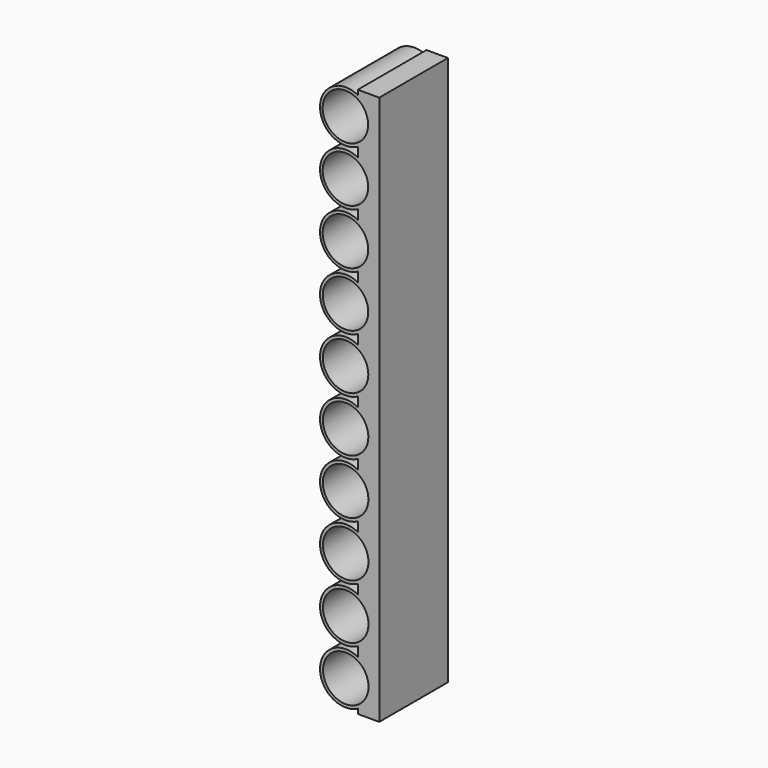
from build123d import *

# Parameters (mm, degrees)
F1_DEPTH = 10
F2_R     = 2.65
F3_DEPTH = 8


with BuildPart() as f1:
    # F0 (on Front) → F1 (new body)
    with BuildSketch(Plane.XZ):
        with BuildLine():
            ThreePointArc((0.118056, -30.331114), (-4.281944, -32.984414), (0.118056, -35.637714))
            Line((0.118056, -35.637714), (0.118056, -30.331114))
        make_face()
        with BuildLine():
            ThreePointArc((0.118056, -17.531114), (-4.281944, -20.184414), (0.118056, -22.837714))
            Line((0.118056, -22.837714), (0.118056, -17.531114))
        make_face()
        with BuildLine():
            ThreePointArc((0.118056, 27.268886), (1.287102, 26.164779), (1.718056, 24.615586))
            ThreePointArc((1.718056, 24.615586), (1.287102, 23.066393), (0.118056, 21.962286))
            Line((0.118056, 21.962286), (0.118056, 20.868886))
            ThreePointArc((0.118056, 20.868886), (1.287102, 19.764779), (1.718056, 18.215586))
            ThreePointArc((1.718056, 18.215586), (1.287102, 16.666393), (0.118056, 15.562286))
            Line((0.118056, 15.562286), (0.118056, 14.468886))
            ThreePointArc((0.118056, 14.468886), (1.287102, 13.364779), (1.718056, 11.815586))
            ThreePointArc((1.718056, 11.815586), (1.287102, 10.266393), (0.118056, 9.162286))
            Line((0.118056, 9.162286), (0.118056, 8.068886))
            ThreePointArc((0.118056, 8.068886), (1.287102, 6.964779), (1.718056, 5.415586))
            ThreePointArc((1.718056, 5.415586), (1.287102, 3.866393), (0.118056, 2.762286))
            Line((0.118056, 2.762286), (0.118056, 1.668886))
            ThreePointArc((0.118056, 1.668886), (1.287102, 0.564779), (1.718056, -0.984414))
            ThreePointArc((1.718056, -0.984414), (1.287102, -2.533607), (0.118056, -3.637714))
            Line((0.118056, -3.637714), (0.118056, -4.731114))
            ThreePointArc((0.118056, -4.731114), (1.287102, -5.835221), (1.718056, -7.384414))
            ThreePointArc((1.718056, -7.384414), (1.287102, -8.933607), (0.118056, -10.037714))
            Line((0.118056, -10.037714), (0.118056, -11.131114))
            ThreePointArc((0.118056, -11.131114), (1.287102, -12.235221), (1.718056, -13.784414))
            ThreePointArc((1.718056, -13.784414), (1.287102, -15.333607), (0.118056, -16.437714))
            Line((0.118056, -16.437714), (0.118056, -17.531114))
            ThreePointArc((0.118056, -17.531114), (1.287102, -18.635221), (1.718056, -20.184414))
            ThreePointArc((1.718056, -20.184414), (1.287102, -21.733607), (0.118056, -22.837714))
            Line((0.118056, -22.837714), (0.118056, -23.931114))
            ThreePointArc((0.118056, -23.931114), (1.287102, -25.035221), (1.718056, -26.584414))
            ThreePointArc((1.718056, -26.584414), (1.287102, -28.133607), (0.118056, -29.237714))
            Line((0.118056, -29.237714), (0.118056, -30.331114))
            ThreePointArc((0.118056, -30.331114), (1.287102, -31.435221), (1.718056, -32.984414))
            ThreePointArc((1.718056, -32.984414), (1.287102, -34.533607), (0.118056, -35.637714))
            Line((0.118056, -35.637714), (0.118056, -36.184414))
            Line((0.118056, -36.184414), (2.618056, -36.184414))
            Line((2.618056, -36.184414), (2.618056, 27.815586))
            Line((2.618056, 27.815586), (0.118056, 27.815586))
            Line((0.118056, 27.815586), (0.118056, 27.268886))
        make_face()
        with BuildLine():
            Line((0.118056, -10.037714), (0.118056, -4.731114))
            ThreePointArc((0.118056, -4.731114), (-4.281944, -7.384414), (0.118056, -10.037714))
        make_face()
        with BuildLine():
            ThreePointArc((0.118056, -23.931114), (-4.281944, -26.584414), (0.118056, -29.237714))
            Line((0.118056, -29.237714), (0.118056, -23.931114))
        make_face()
        with BuildLine():
            Line((0.118056, 2.762286), (0.118056, 8.068886))
            ThreePointArc((0.118056, 8.068886), (-4.281944, 5.415586), (0.118056, 2.762286))
        make_face()
        with BuildLine():
            ThreePointArc((0.118056, -11.131114), (-4.281944, -13.784414), (0.118056, -16.437714))
            Line((0.118056, -16.437714), (0.118056, -11.131114))
        make_face()
        with BuildLine():
            Line((0.118056, -3.637714), (0.118056, 1.668886))
            ThreePointArc((0.118056, 1.668886), (-4.281944, -0.984414), (0.118056, -3.637714))
        make_face()
        with BuildLine():
            ThreePointArc((0.118056, 21.962286), (1.287102, 23.066393), (1.718056, 24.615586))
            ThreePointArc((1.718056, 24.615586), (1.287102, 26.164779), (0.118056, 27.268886))
            Line((0.118056, 27.268886), (0.118056, 21.962286))
        make_face()
        with BuildLine():
            ThreePointArc((1.718056, 18.215586), (1.287102, 19.764779), (0.118056, 20.868886))
            Line((0.118056, 20.868886), (0.118056, 15.562286))
            ThreePointArc((0.118056, 15.562286), (1.287102, 16.666393), (1.718056, 18.215586))
        make_face()
        with BuildLine():
            ThreePointArc((1.718056, 11.815586), (1.287102, 13.364779), (0.118056, 14.468886))
            Line((0.118056, 14.468886), (0.118056, 9.162286))
            ThreePointArc((0.118056, 9.162286), (1.287102, 10.266393), (1.718056, 11.815586))
        make_face()
        with BuildLine():
            ThreePointArc((1.718056, 5.415586), (1.287102, 6.964779), (0.118056, 8.068886))
            Line((0.118056, 8.068886), (0.118056, 2.762286))
            ThreePointArc((0.118056, 2.762286), (1.287102, 3.866393), (1.718056, 5.415586))
        make_face()
        with BuildLine():
            ThreePointArc((1.718056, -0.984414), (1.287102, 0.564779), (0.118056, 1.668886))
            Line((0.118056, 1.668886), (0.118056, -3.637714))
            ThreePointArc((0.118056, -3.637714), (1.287102, -2.533607), (1.718056, -0.984414))
        make_face()
        with BuildLine():
            ThreePointArc((1.718056, -7.384414), (1.287102, -5.835221), (0.118056, -4.731114))
            Line((0.118056, -4.731114), (0.118056, -10.037714))
            ThreePointArc((0.118056, -10.037714), (1.287102, -8.933607), (1.718056, -7.384414))
        make_face()
        with BuildLine():
            Line((0.118056, -11.131114), (0.118056, -16.437714))
            ThreePointArc((0.118056, -16.437714), (1.287102, -15.333607), (1.718056, -13.784414))
            ThreePointArc((1.718056, -13.784414), (1.287102, -12.235221), (0.118056, -11.131114))
        make_face()
        with BuildLine():
            Line((0.118056, -17.531114), (0.118056, -22.837714))
            ThreePointArc((0.118056, -22.837714), (1.287102, -21.733607), (1.718056, -20.184414))
            ThreePointArc((1.718056, -20.184414), (1.287102, -18.635221), (0.118056, -17.531114))
        make_face()
        with BuildLine():
            Line((0.118056, -23.931114), (0.118056, -29.237714))
            ThreePointArc((0.118056, -29.237714), (1.287102, -28.133607), (1.718056, -26.584414))
            ThreePointArc((1.718056, -26.584414), (1.287102, -25.035221), (0.118056, -23.931114))
        make_face()
        with BuildLine():
            Line((0.118056, -30.331114), (0.118056, -35.637714))
            ThreePointArc((0.118056, -35.637714), (1.287102, -34.533607), (1.718056, -32.984414))
            ThreePointArc((1.718056, -32.984414), (1.287102, -31.435221), (0.118056, -30.331114))
        make_face()
        with BuildLine():
            Line((0.118056, 21.962286), (0.118056, 27.268886))
            ThreePointArc((0.118056, 27.268886), (-4.281944, 24.615586), (0.118056, 21.962286))
        make_face()
        with BuildLine():
            Line((0.118056, 15.562286), (0.118056, 20.868886))
            ThreePointArc((0.118056, 20.868886), (-4.281944, 18.215586), (0.118056, 15.562286))
        make_face()
        with BuildLine():
            Line((0.118056, 9.162286), (0.118056, 14.468886))
            ThreePointArc((0.118056, 14.468886), (-4.281944, 11.815586), (0.118056, 9.162286))
        make_face()
    extrude(amount=F1_DEPTH)

    # F2 (on face) → F3 (cut)
    with BuildSketch(Plane.XZ.offset(10)):
        with Locations((-1.281944, -32.984414)):
            Circle(F2_R)
        with Locations((-1.287004, -26.584416)):
            Circle(F2_R)
        with Locations((-1.292063, -20.184418)):
            Circle(F2_R)
        with Locations((-1.297123, -13.78442)):
            Circle(F2_R)
        with Locations((-1.302182, -7.384422)):
            Circle(F2_R)
        with Locations((-1.307241, -0.984424)):
            Circle(F2_R)
        with Locations((-1.312301, 5.415574)):
            Circle(F2_R)
        with Locations((-1.31736, 11.815572)):
            Circle(F2_R)
        with Locations((-1.322419, 18.21557)):
            Circle(F2_R)
        with Locations((-1.327479, 24.615568)):
            Circle(F2_R)
    extrude(amount=-F3_DEPTH, mode=Mode.SUBTRACT)


solid = f1.part
